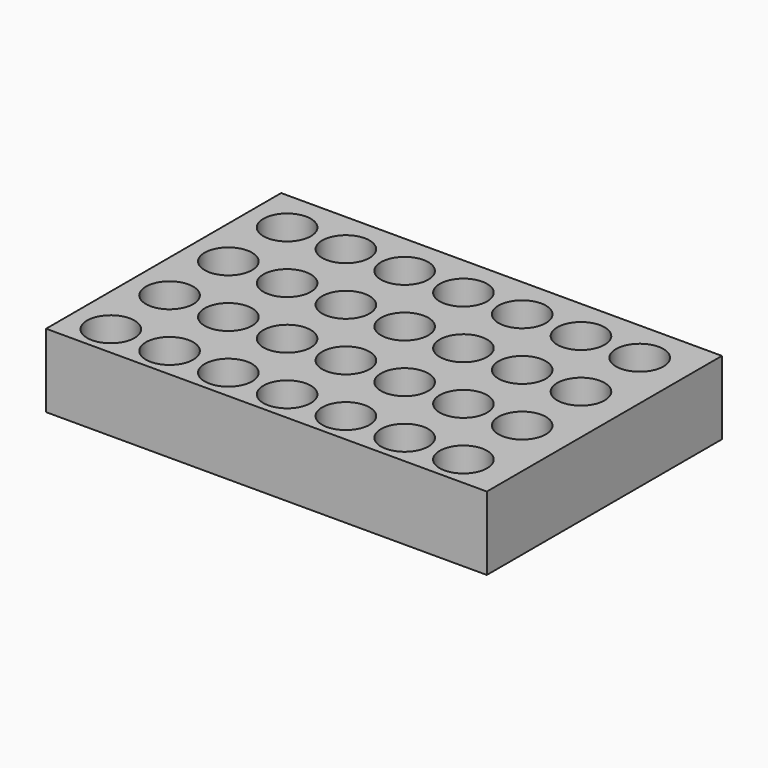
from build123d import *

# Parameters (mm, degrees)
F0_W     = 150
F0_H     = 100
F0_R     = 8.064269
F1_DEPTH = 25


with BuildPart() as f1:
    # F0 (on Top) → F1 (new body)
    with BuildSketch(Plane.XY):
        with Locations((-0.348881, 7.363405)):
            Rectangle(F0_W, F0_H)
        with Locations((-61.726753, -32.127508)):
            Circle(F0_R, mode=Mode.SUBTRACT)
        with Locations((-41.726753, -32.127508)):
            Circle(F0_R, mode=Mode.SUBTRACT)
        with Locations((-21.726753, -32.127508)):
            Circle(F0_R, mode=Mode.SUBTRACT)
        with Locations((-1.726753, -32.127508)):
            Circle(F0_R, mode=Mode.SUBTRACT)
        with Locations((-61.726753, -7.127508)):
            Circle(F0_R, mode=Mode.SUBTRACT)
        with Locations((-41.726753, -7.127508)):
            Circle(F0_R, mode=Mode.SUBTRACT)
        with Locations((-21.726753, -7.127508)):
            Circle(F0_R, mode=Mode.SUBTRACT)
        with Locations((-1.726753, -7.127508)):
            Circle(F0_R, mode=Mode.SUBTRACT)
        with Locations((18.273247, -32.127508)):
            Circle(F0_R, mode=Mode.SUBTRACT)
        with Locations((38.273247, -32.127508)):
            Circle(F0_R, mode=Mode.SUBTRACT)
        with Locations((58.273247, -32.127508)):
            Circle(F0_R, mode=Mode.SUBTRACT)
        with Locations((18.273247, -7.127508)):
            Circle(F0_R, mode=Mode.SUBTRACT)
        with Locations((38.273247, -7.127508)):
            Circle(F0_R, mode=Mode.SUBTRACT)
        with Locations((58.273247, -7.127508)):
            Circle(F0_R, mode=Mode.SUBTRACT)
        with Locations((-61.726753, 17.872492)):
            Circle(F0_R, mode=Mode.SUBTRACT)
        with Locations((-41.726753, 17.872492)):
            Circle(F0_R, mode=Mode.SUBTRACT)
        with Locations((-21.726753, 17.872492)):
            Circle(F0_R, mode=Mode.SUBTRACT)
        with Locations((-1.726753, 17.872492)):
            Circle(F0_R, mode=Mode.SUBTRACT)
        with Locations((-61.726753, 42.872492)):
            Circle(F0_R, mode=Mode.SUBTRACT)
        with Locations((-41.726753, 42.872492)):
            Circle(F0_R, mode=Mode.SUBTRACT)
        with Locations((-21.726753, 42.872492)):
            Circle(F0_R, mode=Mode.SUBTRACT)
        with Locations((-1.726753, 42.872492)):
            Circle(F0_R, mode=Mode.SUBTRACT)
        with Locations((18.273247, 17.872492)):
            Circle(F0_R, mode=Mode.SUBTRACT)
        with Locations((38.273247, 17.872492)):
            Circle(F0_R, mode=Mode.SUBTRACT)
        with Locations((58.273247, 17.872492)):
            Circle(F0_R, mode=Mode.SUBTRACT)
        with Locations((18.273247, 42.872492)):
            Circle(F0_R, mode=Mode.SUBTRACT)
        with Locations((38.273247, 42.872492)):
            Circle(F0_R, mode=Mode.SUBTRACT)
        with Locations((58.273247, 42.872492)):
            Circle(F0_R, mode=Mode.SUBTRACT)
    extrude(amount=F1_DEPTH)


solid = f1.part
